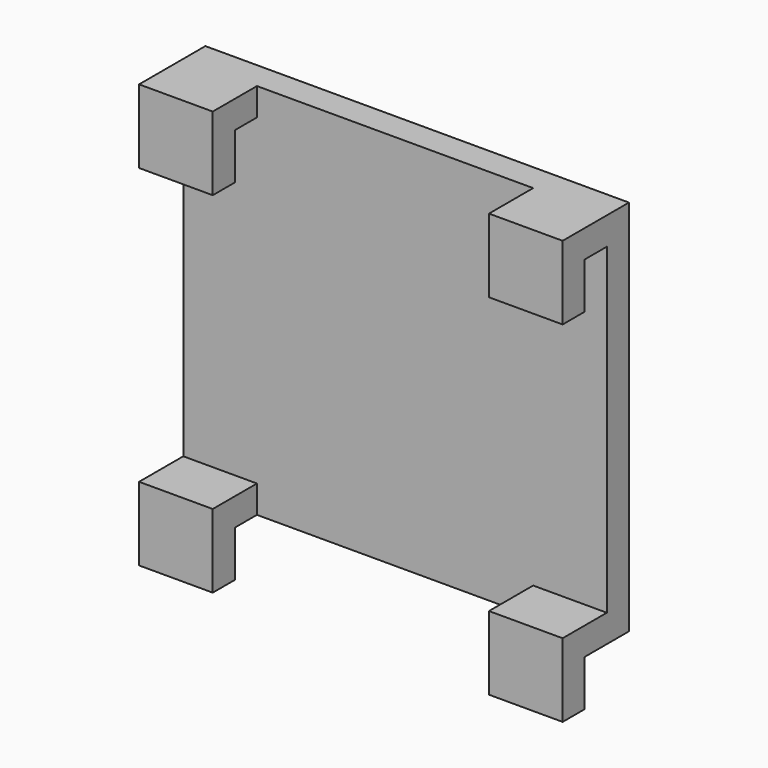
from build123d import *

# Parameters (mm, degrees)
F2_DEPTH = 46
F3_W     = 30
F3_H     = 46
F4_DEPTH = 6.001


with BuildPart() as f2:
    # F1 (on Right) → F2 (new body)
    with BuildSketch(Plane.YZ):
        Polygon((-9, 38), (-6, 38), (-6, 3), (-12, 3), (-12, -5), (-9, -5), (-9, 0), (-3, 0), (-3, 41), (-12, 41), (-12, 33), (-9, 33), align=None)
    extrude(amount=F2_DEPTH)

    # F3 (on face) → F4 (cut, through all)
    with BuildSketch(Plane.XZ.offset(6)):
        with Locations((23, 18)):
            Rectangle(F3_W, F3_H)
    extrude(amount=F4_DEPTH, mode=Mode.SUBTRACT)


solid = f2.part
